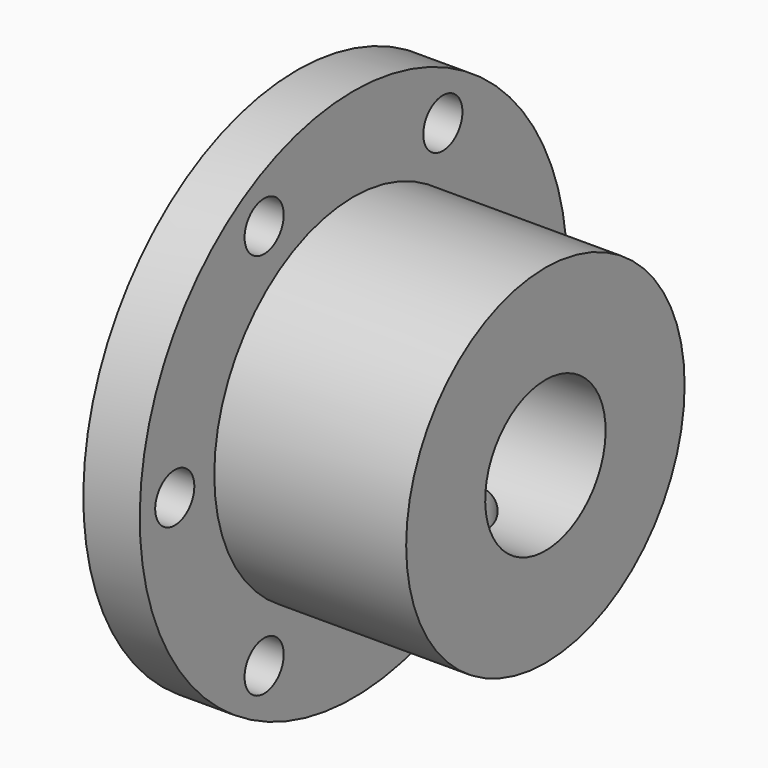
from build123d import *

# Parameters (mm, degrees)
F2_R     = 2.6
F3_DEPTH = 6
F4_R     = 4
F5_DEPTH = 28.401


with BuildPart() as f1:
    # F0 (on Front) → F1 (revolve)
    with BuildSketch(Plane.XZ):
        Polygon((0, 28.4), (0, 8), (26.4, 8), (26.4, 18.5), (6, 18.5), (6, 28.4), align=None)
    revolve(axis=Axis((58.458176, 0, 0), (1, 0, 0)))

    # F2 (on Right) → F3 (cut, through all)
    with BuildSketch(Plane.YZ):
        with Locations((11.875, 20.568103)):
            Circle(F2_R)
        with Locations((23.75, 0)):
            Circle(F2_R)
        with Locations((11.875, -20.568103)):
            Circle(F2_R)
        with Locations((-11.875, -20.568103)):
            Circle(F2_R)
        with Locations((-23.75, 0)):
            Circle(F2_R)
        with Locations((-11.875, 20.568103)):
            Circle(F2_R)
    extrude(amount=F3_DEPTH, mode=Mode.SUBTRACT)

    # F4 (on Top) → F5 (cut, through all)
    with BuildSketch(Plane.XY):
        with Locations((16.2, 0)):
            Circle(F4_R)
    extrude(amount=-F5_DEPTH, mode=Mode.SUBTRACT)


solid = f1.part
